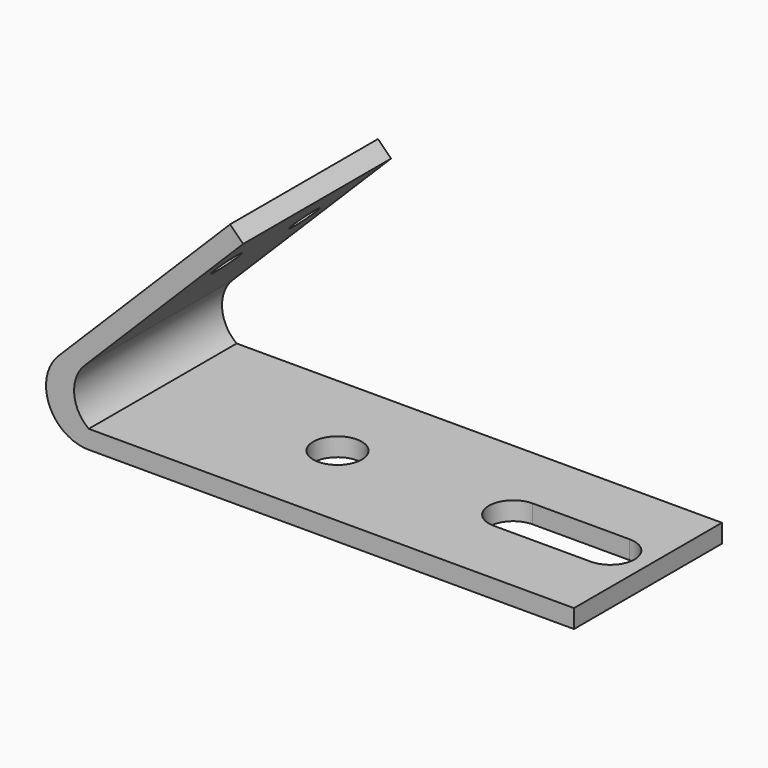
from build123d import *

# Parameters (mm, degrees)
F1_DEPTH = 483.87
F2_R     = 63.5
F3_DEPTH = 307.34
F4_R     = 38.1
F5_DEPTH = 170.18


with BuildPart() as f1:
    # F0 (on Front) → F1 (new body)
    with BuildSketch(Plane.XZ):
        with BuildLine():
            Line((-5.7769804876, 250.2069493125), (-39.9019537476, 284.3319225726))
            Line((-39.9019537476, 284.3319225726), (-488.9147598011, -164.6808834809))
            ThreePointArc((-488.9147598011, -164.6808834809), (-513.1412824891, -286.4758377474), (-409.8885059357, -355.4671373463))
            Line((-409.8885059357, -355.4671373463), (860.1114940643, -355.4671373463))
            Line((860.1114940643, -355.4671373463), (860.1114940643, -307.2071373463))
            Line((860.1114940643, -307.2071373463), (-409.8885059357, -307.2071373463))
            ThreePointArc((-409.8885059357, -307.2071373463), (-447.9966898633, -238.4179483219), (-420.664813281, -164.6808834809))
            Line((-420.664813281, -164.6808834809), (-5.7769804876, 250.2069493125))
        make_face()
    extrude(amount=F1_DEPTH)

    # F2 (on face) → F3 (cut)
    with BuildSketch(Plane.XY.offset(-307.2071373463)):
        with Locations((47.3114940643, -241.5729016066)):
            Circle(F2_R)
        with BuildLine():
            Line((758.6122675238, -174.8664157407), (504.6122675238, -174.8664157407))
            ThreePointArc((504.6122675238, -174.8664157407), (441.1122675238, -238.3664157407), (504.6122675238, -301.8664157407))
            Line((504.6122675238, -301.8664157407), (758.6122675238, -301.8664157407))
            ThreePointArc((758.6122675238, -301.8664157407), (822.1122675238, -238.3664157407), (758.6122675238, -174.8664157407))
        make_face()
    extrude(amount=-F3_DEPTH, mode=Mode.SUBTRACT)

    # F4 (on face) → F5 (cut)
    with BuildSketch(Plane(origin=(-162.1169381601, 0, 162.1169381601), x_dir=(0, -1, 0), z_dir=(-0.7071067812, 0, 0.7071067812))):
        with Locations((114.3, -17.6619115186)):
            Circle(F4_R)
        with Locations((369.57, -17.6619115186)):
            Circle(F4_R)
    extrude(amount=-F5_DEPTH, mode=Mode.SUBTRACT)


solid = f1.part
